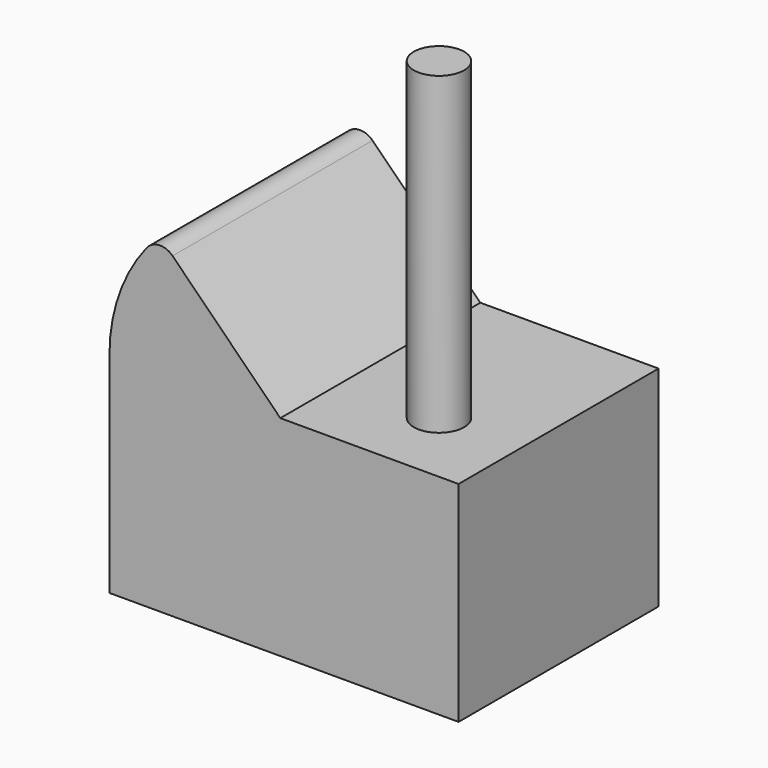
from build123d import *

# Parameters (mm, degrees)
F0_W     = 127
F0_H     = 90.9382707423
F1_DEPTH = 76.2
F2_W     = 62.1625276506
F2_H     = 90.9382707423
F4_ANGLE = 45
F5_R     = 9.1670821984
F6_DEPTH = 114.3
F7_R     = 6.35


with BuildPart() as f1:
    # F0 (on Top) → F1 (new body)
    with BuildSketch(Plane.XY):
        with Locations((1.3374723494, 2.0061992109)):
            Rectangle(F0_W, F0_H)
    extrude(amount=F1_DEPTH)

    # F2 (on face) → F4 (revolve)
    with BuildSketch(Plane.XY.offset(76.2)):
        with Locations((-31.0812638253, 2.0061992109)):
            Rectangle(F2_W, F2_H)
    revolve(axis=Axis((0, 2.0061992109, 76.2), (0, 1, 0)), revolution_arc=F4_ANGLE)

    # F5 (on face) → F6 (join)
    with BuildSketch(Plane.XY.offset(76.2)):
        with Locations((35.0989550352, -15.1951536536)):
            Circle(F5_R)
    extrude(amount=F6_DEPTH)

    # F7
    f7_edges = [f1.edges().sort_by_distance(p)[0] for p in [
        (-43.955545, 2.006199, 120.155545),
    ]]
    fillet(f7_edges, radius=F7_R)


solid = f1.part
